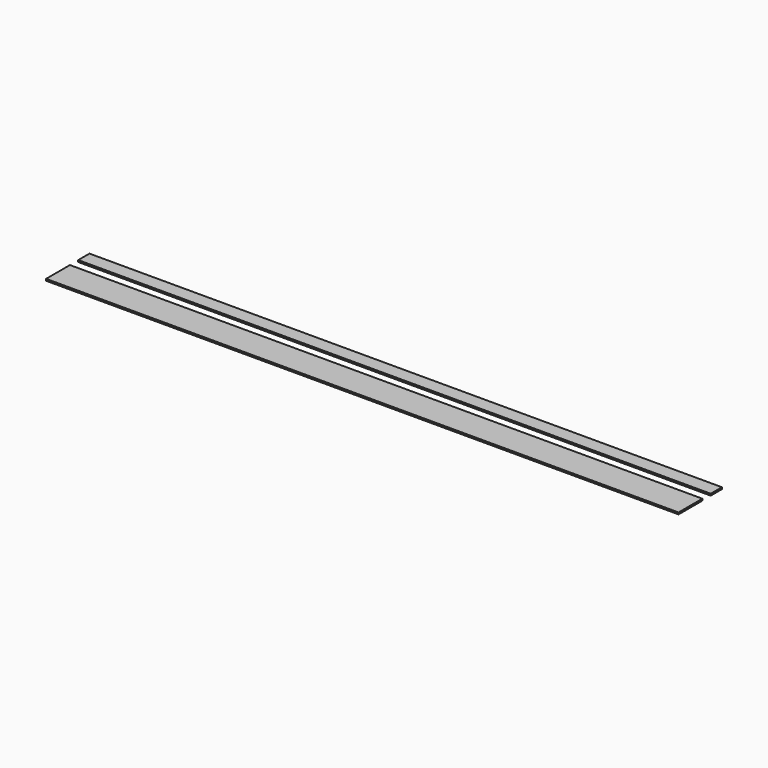
from build123d import *

# Parameters (mm, degrees)
F0_W     = 107.7468
F0_H     = 6.35
F1_DEPTH = 2286
F0_W_2   = 50.8
F2_DEPTH = 2286


with BuildPart() as f1:
    # F0 (on Right) → F1 (new body)
    with BuildSketch(Plane.YZ):
        with Locations((-74.790915, 1.698243)):
            Rectangle(F0_W, F0_H)
    extrude(amount=F1_DEPTH)


with BuildPart() as f2:
    # F0 (on Right) → F2 (new body)
    with BuildSketch(Plane.YZ):
        with Locations((41.991929, 2.293554)):
            Rectangle(F0_W_2, F0_H)
    extrude(amount=F2_DEPTH)


solid = Compound([f1.part, f2.part])
